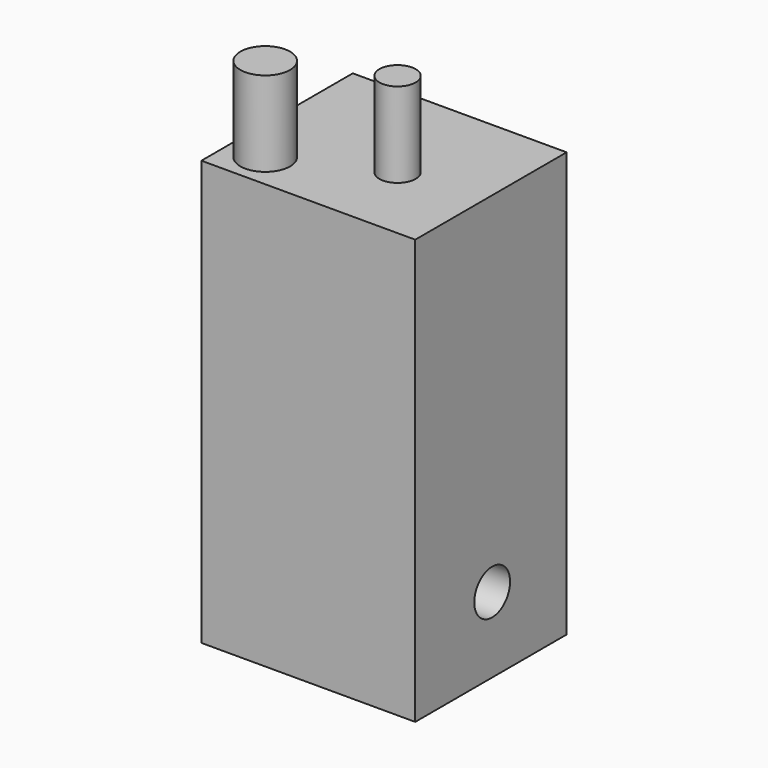
from build123d import *

# Parameters (mm, degrees)
F0_W     = 63.97113
F0_H     = 56.596935
F1_DEPTH = 127
F2_R     = 5.418349
F3_DEPTH = 25.4
F4_R     = 6.69388
F5_DEPTH = 85.09
F6_R     = 7.430381
F7_DEPTH = 25.4


with BuildPart() as f1:
    # F0 (on Top) → F1 (new body)
    with BuildSketch(Plane.XY):
        with Locations((-3.410564, -0.460888)):
            Rectangle(F0_W, F0_H)
    extrude(amount=F1_DEPTH)

    # F2 (on face) → F3 (join)
    with BuildSketch(Plane.XY.offset(127)):
        with Locations((4.034519, -4.703406)):
            Circle(F2_R)
    extrude(amount=F3_DEPTH)

    # F4 (on face) → F5 (cut)
    with BuildSketch(Plane.YZ.offset(28.575001)):
        with Locations((0, 22.527253)):
            Circle(F4_R)
    extrude(amount=-F5_DEPTH, mode=Mode.SUBTRACT)

    # F6 (on face) → F7 (join)
    with BuildSketch(Plane.XY.offset(127)):
        with Locations((-24.845107, -18.07957)):
            Circle(F6_R)
    extrude(amount=F7_DEPTH)


solid = f1.part
